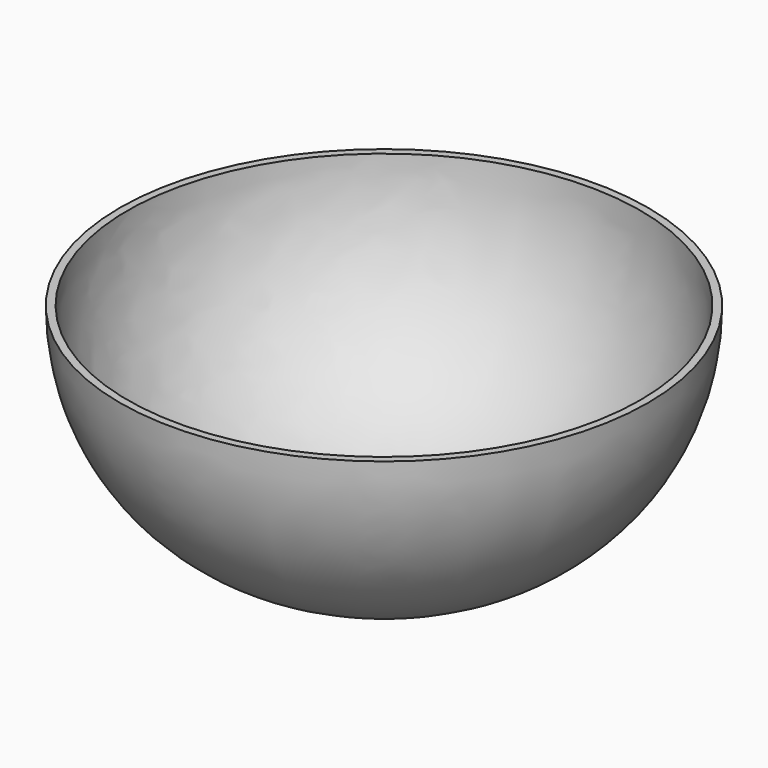
from build123d import *

# Parameters (mm, degrees)
F2_R     = 5
F3_DEPTH = 1.5


with BuildPart() as f1:
    # F0 (on Front) → F1 (revolve)
    with BuildSketch(Plane.XZ):
        with BuildLine():
            Line((0, 1.5), (0, 0))
            Line((0, 0), (7, 0))
            ThreePointArc((7, 0), (38.819805, 13.180195), (52, 45))
            Line((52, 45), (50.5, 45))
            ThreePointArc((50.5, 45), (37.759145, 14.240855), (7, 1.5))
            Line((7, 1.5), (0, 1.5))
        make_face()
    revolve(axis=Axis((0, 0, 22.5), (0, 0, 1)))

    # F2 (on Top) → F3 (cut)
    with BuildSketch(Plane.XY):
        Circle(F2_R)
    extrude(amount=F3_DEPTH, mode=Mode.SUBTRACT)


solid = f1.part
